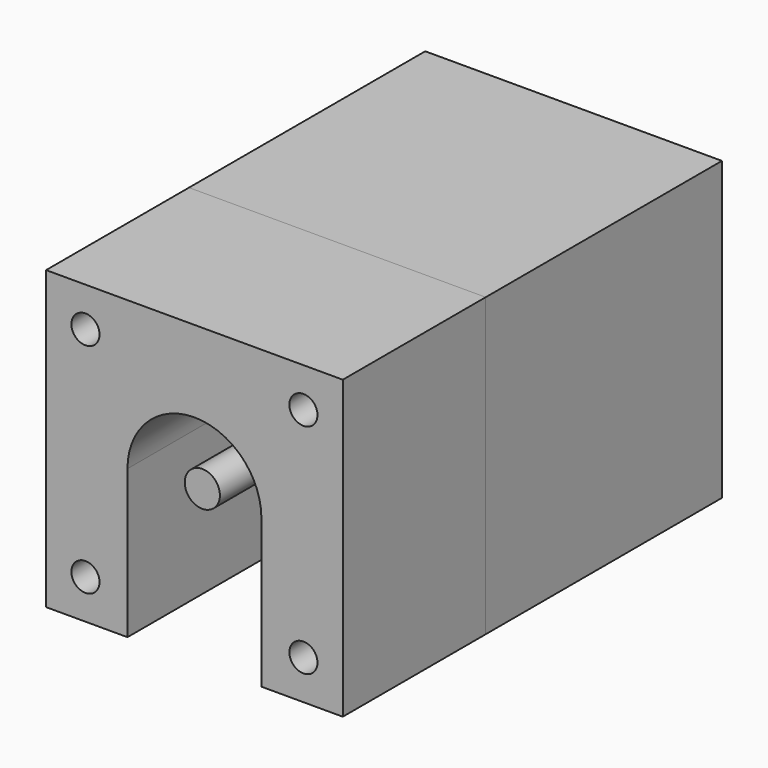
from build123d import *

# Parameters (mm, degrees)
F0_W     = 42.2
F0_H     = 42.2
F0_R     = 2
F0_R_2   = 2.5
F1_DEPTH = 42
F2_DEPTH = 66
F3_R     = 2
F4_DEPTH = 25.4


with BuildPart() as f1:
    # F0 (on Front) → F1 (new body)
    with BuildSketch(Plane.XZ):
        Rectangle(F0_W, F0_H)
        with Locations((-15.5, -15.5)):
            Circle(F0_R, mode=Mode.SUBTRACT)
        with Locations((15.5, -15.5)):
            Circle(F0_R, mode=Mode.SUBTRACT)
        with Locations((-15.5, 15.5)):
            Circle(F0_R, mode=Mode.SUBTRACT)
        Circle(F0_R_2, mode=Mode.SUBTRACT)
        with Locations((15.5, 15.5)):
            Circle(F0_R, mode=Mode.SUBTRACT)
        Circle(F0_R_2)
    extrude(amount=F1_DEPTH)


with BuildPart() as f2:
    # F0 (on Front) → F2 (new body)
    with BuildSketch(Plane.XZ):
        Circle(F0_R_2)
    extrude(amount=F2_DEPTH)


with BuildPart() as f4:
    # F3 (on face) → F4 (new body)
    with BuildSketch(Plane.XZ.offset(42)):
        with BuildLine():
            ThreePointArc((-9.525, 0), (0, 9.525), (9.525, 0))
            Line((9.525, 0), (9.525, -21.1))
            Line((9.525, -21.1), (21.1, -21.1))
            Line((21.1, -21.1), (21.1, 21.1))
            Line((21.1, 21.1), (-21.1, 21.1))
            Line((-21.1, 21.1), (-21.1, -21.1))
            Line((-21.1, -21.1), (-9.525, -21.1))
            Line((-9.525, -21.1), (-9.525, 0))
        make_face()
        with Locations((-15.5, -15.5)):
            Circle(F3_R, mode=Mode.SUBTRACT)
        with Locations((15.5, -15.5)):
            Circle(F3_R, mode=Mode.SUBTRACT)
        with Locations((-15.5, 15.5)):
            Circle(F3_R, mode=Mode.SUBTRACT)
        with Locations((15.5, 15.5)):
            Circle(F3_R, mode=Mode.SUBTRACT)
    extrude(amount=F4_DEPTH)


solid = Compound([f1.part, f2.part, f4.part])
